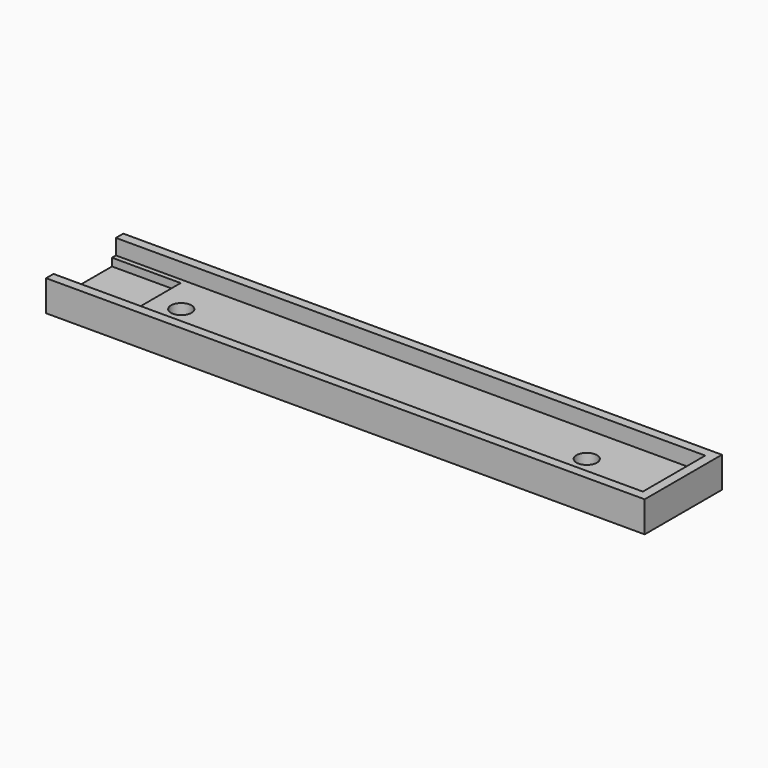
from build123d import *

# Parameters (mm, degrees)
F1_DEPTH = 10.16
F0_R     = 3.3655
F0_W     = 22.5806
F0_H     = 22.4536
F2_DEPTH = 5.08
F3_START = 2.54
F3_DEPTH = 2.54


with BuildPart() as f1:
    # F0 (on Top) → F1 (new body)
    with BuildSketch(Plane.XY):
        Polygon((-44.0307967365, -11.1630027373), (-44.0307967365, -14.2110027373), (152.8192032635, -14.2110027373), (152.8192032635, 17.5389972627), (-44.0307967365, 17.5389972627), (-44.0307967365, 14.4909972627), (149.7712032635, 14.4909972627), (149.7712032635, -11.1630027373), align=None)
    extrude(amount=F1_DEPTH)

    # F0 (on Top) → F2 (join)
    with BuildSketch(Plane.XY):
        Polygon((-44.0307967365, -9.5628027373), (-44.0307967365, -11.1630027373), (149.7712032635, -11.1630027373), (149.7712032635, 14.4909972627), (-44.0307967365, 14.4909972627), (-44.0307967365, 12.8907972627), (-21.4501967365, 12.8907972627), (-21.4501967365, -9.5628027373), align=None)
        with Locations((-12.2807967365, 1.6639972627)):
            Circle(F0_R, mode=Mode.SUBTRACT)
        with Locations((121.0692032635, 1.6639972627)):
            Circle(F0_R, mode=Mode.SUBTRACT)
        with Locations((-32.7404967365, 1.6639972627)):
            Rectangle(F0_W, F0_H)
    extrude(amount=F2_DEPTH)

    # F0 (on Top) → F3 (cut)
    with BuildSketch(Plane.XY.offset(F3_START)):
        with Locations((-32.7404967365, 1.6639972627)):
            Rectangle(F0_W, F0_H)
    extrude(amount=F3_DEPTH, mode=Mode.SUBTRACT)


solid = f1.part
